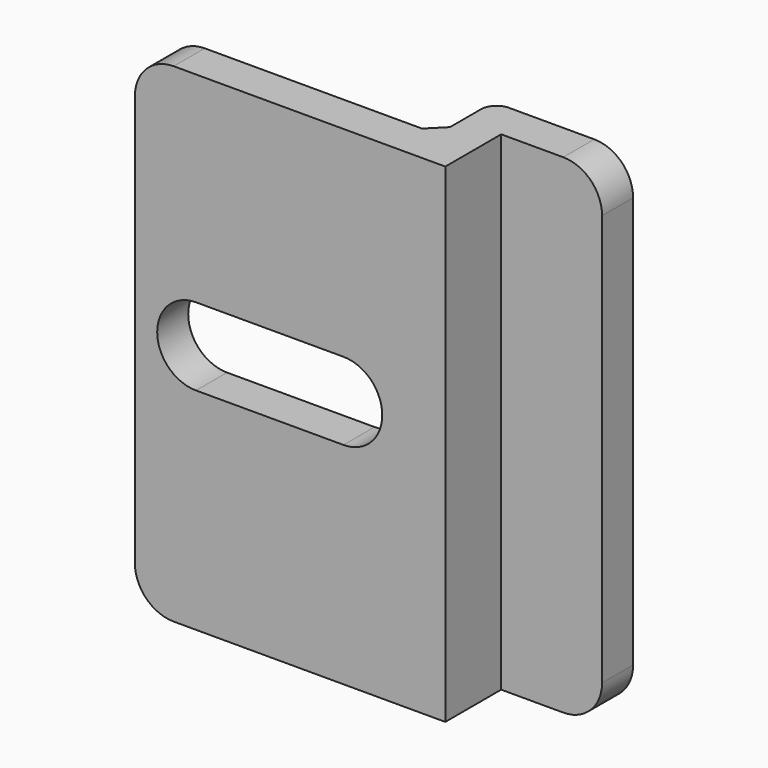
from build123d import *

# Parameters (mm, degrees)
F0_W     = 35
F0_H     = 5
F0_W_2   = 13
F0_W_3   = 5
F1_DEPTH = 63
F2_R     = 5
F3_W     = 19
F3_H     = 10
F4_DEPTH = 25
F5_SIZE  = 2
F6_R     = 2


with BuildPart() as f1:
    # F0 (on Top) → F1 (new body)
    with BuildSketch(Plane.XY):
        with Locations((-23.783123, 12.172864)):
            Rectangle(F0_W, F0_H)
        Polygon((-1.283123, 18.672864), (-6.283123, 18.672864), (-6.283123, 14.672864), (-6.283123, 9.672864), (-1.283123, 9.672864), align=None)
        with Locations((5.216877, 21.172864)):
            Rectangle(F0_W_2, F0_H)
        with Locations((-3.783123, 21.172864)):
            Rectangle(F0_W_3, F0_H)
    extrude(amount=F1_DEPTH)

    # F2
    f2_edges = [f1.edges().sort_by_distance(p)[0] for p in [
        (-41.283123, 12.172864, 63),
        (11.716877, 21.172864, 63),
        (-41.283123, 12.172864, 0),
        (11.716877, 21.172864, 0),
    ]]
    fillet(f2_edges, radius=F2_R)

    # F3 (on Front) → F4 (cut)
    with BuildSketch(Plane.XZ):
        with Locations((-23.909603, 32.153667)):
            Rectangle(F3_W, F3_H)
        with BuildLine():
            Line((-14.409603, 37.153667), (-14.409603, 27.153667))
            ThreePointArc((-14.409603, 27.153667), (-9.409603, 32.153667), (-14.409603, 37.153667))
        make_face()
        with BuildLine():
            ThreePointArc((-33.409603, 37.153667), (-38.409603, 32.153667), (-33.409603, 27.153667))
            Line((-33.409603, 27.153667), (-33.409603, 37.153667))
        make_face()
    extrude(amount=-F4_DEPTH, mode=Mode.SUBTRACT)

    # F5
    f5_edges = [f1.edges().sort_by_distance(p)[0] for p in [
        (-6.283123, 14.672864, 31.5),
    ]]
    chamfer(f5_edges, length=F5_SIZE)

    # F6
    f6_edges = [f1.edges().sort_by_distance(p)[0] for p in [
        (-6.283123, 23.672864, 31.5),
    ]]
    fillet(f6_edges, radius=F6_R)


solid = f1.part
